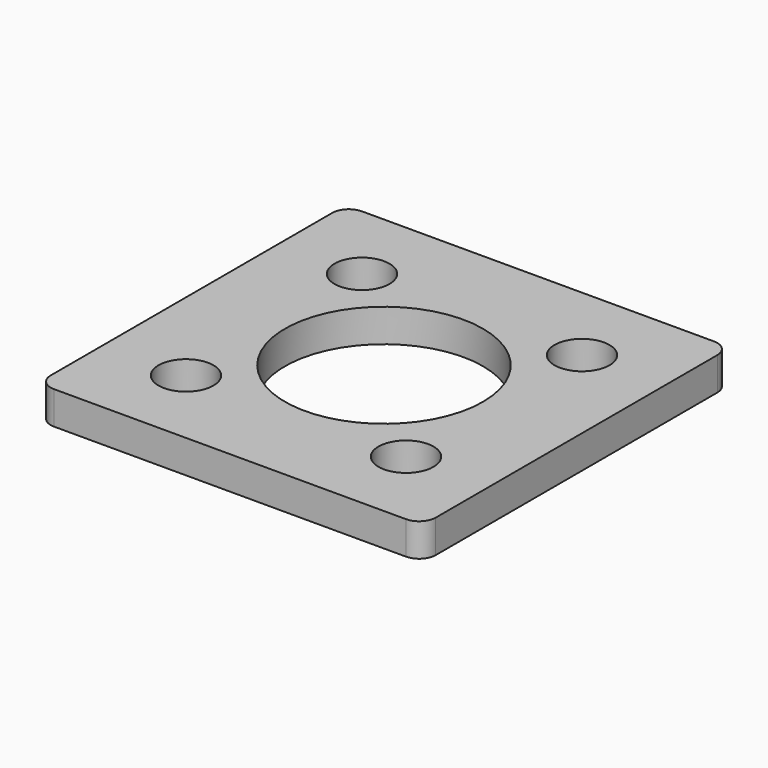
from build123d import *

# Parameters (mm, degrees)
CYLINDER002_R     = 2.5
CYLINDER002_DEPTH = 3
CYLINDER001_R     = 9
CYLINDER001_DEPTH = 3
CYLINDER003_R     = 2.5
CYLINDER003_DEPTH = 3
CYLINDER004_R     = 2.5
CYLINDER004_DEPTH = 3
CYLINDER005_R     = 2.5
CYLINDER005_DEPTH = 3
BOX002_W          = 35
BOX002_H          = 35
BOX002_DEPTH      = 3
FILLET002_R       = 1.5


with BuildPart() as cylinder002:
    # Cylinder002 → Cylinder002 (new body)
    with BuildSketch(Plane(origin=(10, 10, 0), x_dir=(1, 0, 0), z_dir=(0, 0, 1))):
        Circle(CYLINDER002_R)
    extrude(amount=CYLINDER002_DEPTH)


with BuildPart() as cylinder001:
    # Cylinder001 → Cylinder001 (new body)
    with BuildSketch(Plane(origin=(20, 20, 0), x_dir=(1, 0, 0), z_dir=(0, 0, 1))):
        Circle(CYLINDER001_R)
    extrude(amount=CYLINDER001_DEPTH)


with BuildPart() as cylinder003:
    # Cylinder003 → Cylinder003 (new body)
    with BuildSketch(Plane(origin=(30, 10, 0), x_dir=(1, 0, 0), z_dir=(0, 0, 1))):
        Circle(CYLINDER003_R)
    extrude(amount=CYLINDER003_DEPTH)


with BuildPart() as cylinder004:
    # Cylinder004 → Cylinder004 (new body)
    with BuildSketch(Plane(origin=(10, 30, 0), x_dir=(1, 0, 0), z_dir=(0, 0, 1))):
        Circle(CYLINDER004_R)
    extrude(amount=CYLINDER004_DEPTH)


with BuildPart() as cylinder005:
    # Cylinder005 → Cylinder005 (new body)
    with BuildSketch(Plane(origin=(30, 30, 0), x_dir=(1, 0, 0), z_dir=(0, 0, 1))):
        Circle(CYLINDER005_R)
    extrude(amount=CYLINDER005_DEPTH)


with BuildPart() as cut006:
    # Box002 → Box002 (new body)
    with BuildSketch(Plane(origin=(2.5, 2.5, 0), x_dir=(1, 0, 0), z_dir=(0, 0, 1))):
        with Locations((17.5, 17.5)):
            Rectangle(BOX002_W, BOX002_H)
    extrude(amount=BOX002_DEPTH)

    # Fillet002
    fillet002_edges = [cut006.edges().sort_by_distance(p)[0] for p in [
        (2.5, 2.5, 1.5),
        (2.5, 37.5, 1.5),
        (37.5, 2.5, 1.5),
        (37.5, 37.5, 1.5),
    ]]
    fillet(fillet002_edges, radius=FILLET002_R)

    # Cut002: cut Cylinder005
    add(cylinder005.part, mode=Mode.SUBTRACT)

    # Cut003: cut Cylinder004
    add(cylinder004.part, mode=Mode.SUBTRACT)

    # Cut004: cut Cylinder003
    add(cylinder003.part, mode=Mode.SUBTRACT)

    # Cut005: cut Cylinder001
    add(cylinder001.part, mode=Mode.SUBTRACT)

    # Cut006: cut Cylinder002
    add(cylinder002.part, mode=Mode.SUBTRACT)


solid = cut006.part
